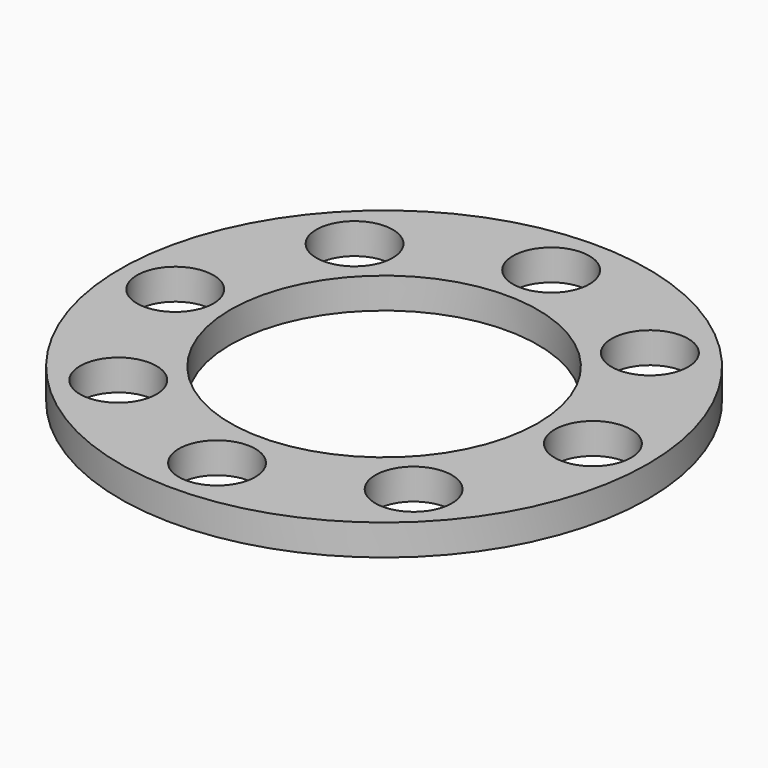
from build123d import *

# Parameters (mm, degrees)
F0_R     = 27.5
F0_R_2   = 3.985
F0_R_3   = 16.015
F1_DEPTH = 3.21


with BuildPart() as f1:
    # F0 (on Top) → F1 (new body)
    with BuildSketch(Plane.XY):
        Circle(F0_R)
        with Locations((-15.384876, -15.384876)):
            Circle(F0_R_2, mode=Mode.SUBTRACT)
        with Locations((0, -21.7575)):
            Circle(F0_R_2, mode=Mode.SUBTRACT)
        with Locations((15.384876, -15.384876)):
            Circle(F0_R_2, mode=Mode.SUBTRACT)
        with Locations((-21.7575, 0)):
            Circle(F0_R_2, mode=Mode.SUBTRACT)
        with Locations((-15.384876, 15.384876)):
            Circle(F0_R_2, mode=Mode.SUBTRACT)
        Circle(F0_R_3, mode=Mode.SUBTRACT)
        with Locations((21.7575, 0)):
            Circle(F0_R_2, mode=Mode.SUBTRACT)
        with Locations((0, 21.7575)):
            Circle(F0_R_2, mode=Mode.SUBTRACT)
        with Locations((15.384876, 15.384876)):
            Circle(F0_R_2, mode=Mode.SUBTRACT)
    extrude(amount=F1_DEPTH)


solid = f1.part
